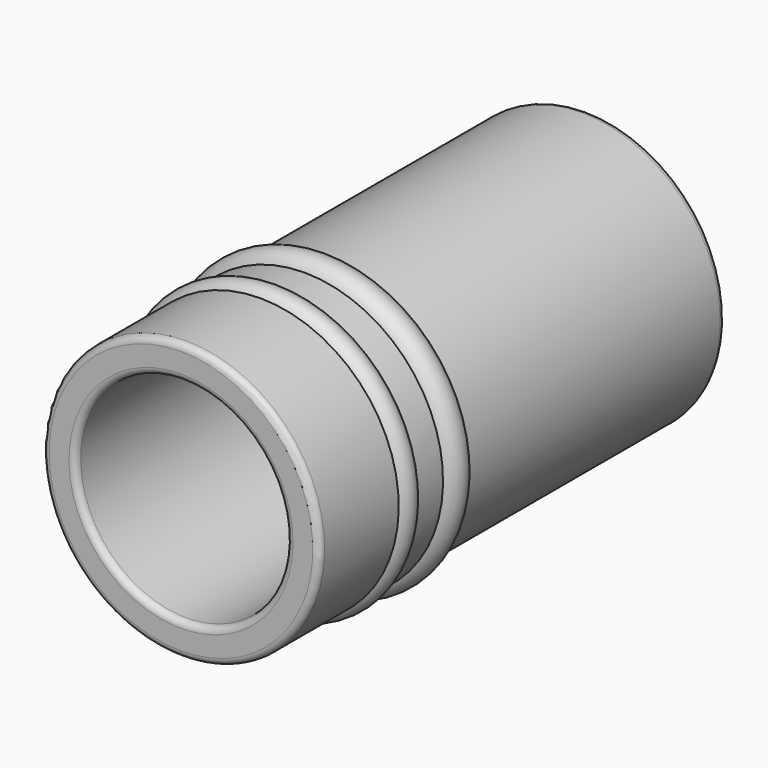
from build123d import *


with BuildPart() as f1:
    # F0 (on Right) → F1 (revolve)
    with BuildSketch(Plane.YZ):
        with BuildLine():
            Line((-18.375826, 21), (-27.375826, 21))
            ThreePointArc((-27.375826, 21), (-28.082933, 20.707107), (-28.375826, 20))
            Line((-28.375826, 20), (-28.375826, 17))
            ThreePointArc((-28.375826, 17), (-28.082933, 16.292893), (-27.375826, 16))
            Line((-27.375826, 16), (47.624174, 16))
            ThreePointArc((47.624174, 16), (48.331281, 16.292893), (48.624174, 17))
            Line((48.624174, 17), (48.624174, 20))
            ThreePointArc((48.624174, 20), (48.331281, 20.707107), (47.624174, 21))
            Line((47.624174, 21), (-0.345918, 21))
            Line((-0.345918, 21), (-4.928493, 21))
            Line((-4.928493, 21), (-9.867342, 21))
            Line((-9.867342, 21), (-13.331443, 21))
            Line((-13.331443, 21), (-18.375826, 21))
        make_face()
        with BuildLine():
            ThreePointArc((-9.867342, 21), (-11.599393, 22), (-13.331443, 21))
            Line((-13.331443, 21), (-9.867342, 21))
        make_face()
        with BuildLine():
            ThreePointArc((-0.345918, 21), (-2.637205, 22.5), (-4.928493, 21))
            Line((-4.928493, 21), (-0.345918, 21))
        make_face()
    revolve(axis=Axis((0, 6.925453, 0), (0, 1, 0)))


solid = f1.part
